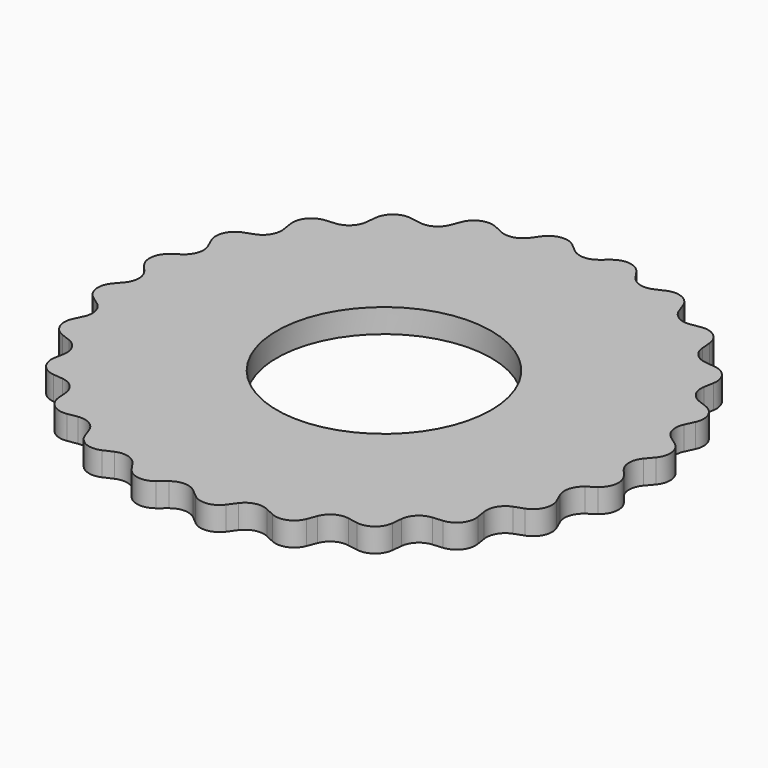
from build123d import *

# Parameters (mm, degrees)
F0_R     = 14.2875
F1_DEPTH = 3.175


with BuildPart() as f1:
    # F0 (on Top) → F1 (new body)
    with BuildSketch(Plane.XY):
        with BuildLine():
            Line((-101.720522, 36.347288), (-103.024984, 36.578738))
            ThreePointArc((-103.024984, 36.578738), (-104.9987, 36.105304), (-105.995444, 34.337198))
            Line((-105.995444, 34.337198), (-106.130744, 33.019289))
            ThreePointArc((-106.130744, 33.019289), (-106.875934, 31.46823), (-108.438793, 30.748117))
            Line((-108.438793, 30.748117), (-109.758711, 30.634062))
            ThreePointArc((-109.758711, 30.634062), (-111.542641, 29.665924), (-112.047802, 27.700088))
            Line((-112.047802, 27.700088), (-111.837391, 26.392068))
            ThreePointArc((-111.837391, 26.392068), (-112.155746, 24.700991), (-113.478973, 23.600917))
            Line((-113.478973, 23.600917), (-114.724396, 23.149128))
            ThreePointArc((-114.724396, 23.149128), (-116.196967, 21.752264), (-116.17612, 19.722667))
            Line((-116.17612, 19.722667), (-115.634338, 18.513674))
            ThreePointArc((-115.634338, 18.513674), (-115.504162, 16.797823), (-116.497582, 15.392757))
            Line((-116.497582, 15.392757), (-117.583636, 14.634023))
            ThreePointArc((-117.583636, 14.634023), (-118.644496, 12.903626), (-118.09906, 10.948582))
            Line((-118.09906, 10.948582), (-117.262829, 9.921009))
            ThreePointArc((-117.262829, 9.921009), (-116.692994, 8.297315), (-117.288906, 6.68301))
            Line((-117.288906, 6.68301), (-118.141578, 5.669038))
            ThreePointArc((-118.141578, 5.669038), (-118.718431, 3.723032), (-117.685578, 1.975774))
            Line((-117.685578, 1.975774), (-116.611885, 1.199647))
            ThreePointArc((-116.611885, 1.199647), (-115.641224, -0.221237), (-115.799017, -1.934769))
            Line((-115.799017, -1.934769), (-116.360201, -3.134879))
            ThreePointArc((-116.360201, -3.134879), (-116.413734, -5.163876), (-114.963851, -6.584277))
            Line((-114.963851, -6.584277), (-113.725866, -7.056066))
            ThreePointArc((-113.725866, -7.056066), (-112.420528, -8.177308), (-112.12945, -9.873293))
            Line((-112.12945, -9.873293), (-112.360901, -11.177755))
            ThreePointArc((-112.360901, -11.177755), (-111.887466, -13.151472), (-110.11936, -14.148215))
            Line((-110.11936, -14.148215), (-108.801451, -14.283515))
            ThreePointArc((-108.801451, -14.283515), (-107.250392, -15.028705), (-106.53028, -16.591565))
            Line((-106.53028, -16.591565), (-106.416224, -17.911482))
            ThreePointArc((-106.416224, -17.911482), (-105.448086, -19.695412), (-103.48225, -20.200573))
            Line((-103.48225, -20.200573), (-102.17423, -19.990162))
            ThreePointArc((-102.17423, -19.990162), (-100.483153, -20.308517), (-99.383079, -21.631745))
            Line((-99.383079, -21.631745), (-98.93129, -22.877167))
            ThreePointArc((-98.93129, -22.877167), (-97.534426, -24.349739), (-95.504829, -24.328891))
            Line((-95.504829, -24.328891), (-94.295837, -23.787109))
            ThreePointArc((-94.295837, -23.787109), (-92.579985, -23.656934), (-91.174919, -24.650353))
            Line((-91.174919, -24.650353), (-90.416186, -25.736407))
            ThreePointArc((-90.416186, -25.736407), (-88.685789, -26.797267), (-86.730744, -26.251831))
            Line((-86.730744, -26.251831), (-85.703171, -25.4156))
            ThreePointArc((-85.703171, -25.4156), (-84.079478, -24.845765), (-82.465172, -25.441677))
            Line((-82.465172, -25.441677), (-81.4512, -26.29435))
            ThreePointArc((-81.4512, -26.29435), (-79.505194, -26.871202), (-77.757936, -25.838349))
            Line((-77.757936, -25.838349), (-76.981809, -24.764656))
            ThreePointArc((-76.981809, -24.764656), (-75.560925, -23.793995), (-73.847393, -23.951788))
            Line((-73.847393, -23.951788), (-72.647283, -24.512972))
            ThreePointArc((-72.647283, -24.512972), (-70.618286, -24.566505), (-69.197886, -23.116622))
            Line((-69.197886, -23.116622), (-68.726097, -21.878637))
            ThreePointArc((-68.726097, -21.878637), (-67.604854, -20.573299), (-65.908869, -20.282221))
            Line((-65.908869, -20.282221), (-64.604407, -20.513672))
            ThreePointArc((-64.604407, -20.513672), (-62.630691, -20.040237), (-61.633947, -18.272131))
            Line((-61.633947, -18.272131), (-61.498647, -16.954222))
            ThreePointArc((-61.498647, -16.954222), (-60.753457, -15.403164), (-59.190598, -14.683051))
            Line((-59.190598, -14.683051), (-57.87068, -14.568995))
            ThreePointArc((-57.87068, -14.568995), (-56.08675, -13.600857), (-55.581589, -11.635021))
            Line((-55.581589, -11.635021), (-55.792, -10.327001))
            ThreePointArc((-55.792, -10.327001), (-55.473645, -8.635924), (-54.150418, -7.53585))
            Line((-54.150418, -7.53585), (-52.904995, -7.084061))
            ThreePointArc((-52.904995, -7.084061), (-51.432424, -5.687197), (-51.453271, -3.6576))
            Line((-51.453271, -3.6576), (-51.995053, -2.448608))
            ThreePointArc((-51.995053, -2.448608), (-52.125228, -0.732756), (-51.131809, 0.672309))
            Line((-51.131809, 0.672309), (-50.045755, 1.431043))
            ThreePointArc((-50.045755, 1.431043), (-48.984895, 3.16144), (-49.530331, 5.116484))
            Line((-49.530331, 5.116484), (-50.366562, 6.144058))
            ThreePointArc((-50.366562, 6.144058), (-50.936397, 7.767751), (-50.340485, 9.382056))
            Line((-50.340485, 9.382056), (-49.487813, 10.396028))
            ThreePointArc((-49.487813, 10.396028), (-48.91096, 12.342034), (-49.943813, 14.089293))
            Line((-49.943813, 14.089293), (-51.017506, 14.86542))
            ThreePointArc((-51.017506, 14.86542), (-51.988167, 16.286303), (-51.830374, 17.999836))
            Line((-51.830374, 17.999836), (-51.26919, 19.199945))
            ThreePointArc((-51.26919, 19.199945), (-51.215657, 21.228943), (-52.66554, 22.649343))
            Line((-52.66554, 22.649343), (-53.903525, 23.121132))
            ThreePointArc((-53.903525, 23.121132), (-55.208863, 24.242375), (-55.499941, 25.93836))
            Line((-55.499941, 25.93836), (-55.26849, 27.242822))
            ThreePointArc((-55.26849, 27.242822), (-55.741925, 29.216538), (-57.510031, 30.213282))
            Line((-57.510031, 30.213282), (-58.82794, 30.348581))
            ThreePointArc((-58.82794, 30.348581), (-60.378998, 31.093772), (-61.099111, 32.656631))
            Line((-61.099111, 32.656631), (-61.213167, 33.976548))
            ThreePointArc((-61.213167, 33.976548), (-62.181305, 35.760479), (-64.147141, 36.26564))
            Line((-64.147141, 36.26564), (-65.455161, 36.055229))
            ThreePointArc((-65.455161, 36.055229), (-67.146238, 36.373584), (-68.246312, 37.696811))
            Line((-68.246312, 37.696811), (-68.698101, 38.942234))
            ThreePointArc((-68.698101, 38.942234), (-70.094965, 40.414805), (-72.124562, 40.393958))
            Line((-72.124562, 40.393958), (-73.333554, 39.852176))
            ThreePointArc((-73.333554, 39.852176), (-75.049406, 39.722), (-76.454472, 40.71542))
            Line((-76.454472, 40.71542), (-77.213205, 41.801474))
            ThreePointArc((-77.213205, 41.801474), (-78.943602, 42.862333), (-80.898647, 42.316898))
            Line((-80.898647, 42.316898), (-81.92622, 41.480667))
            ThreePointArc((-81.92622, 41.480667), (-83.549913, 40.910832), (-85.164219, 41.506743))
            Line((-85.164219, 41.506743), (-86.178191, 42.359416))
            ThreePointArc((-86.178191, 42.359416), (-88.124197, 42.936268), (-89.871455, 41.903416))
            Line((-89.871455, 41.903416), (-90.647582, 40.829723))
            ThreePointArc((-90.647582, 40.829723), (-92.068465, 39.859062), (-93.781998, 40.016855))
            Line((-93.781998, 40.016855), (-94.982107, 40.578039))
            ThreePointArc((-94.982107, 40.578039), (-97.011105, 40.631572), (-98.431505, 39.181689))
            Line((-98.431505, 39.181689), (-98.903294, 37.943704))
            ThreePointArc((-98.903294, 37.943704), (-100.024537, 36.638366), (-101.720522, 36.347288))
        make_face()
        with Locations((-83.814695, 8.032533)):
            Circle(F0_R, mode=Mode.SUBTRACT)
    extrude(amount=F1_DEPTH)


solid = f1.part
